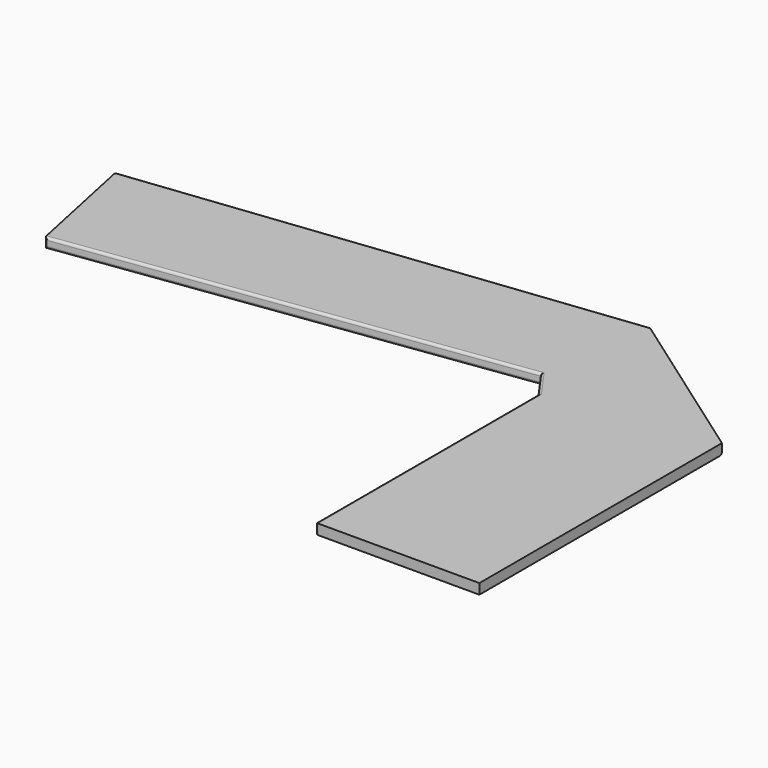
from build123d import *

# Parameters (mm, degrees)
F1_DEPTH = 38.1
F2_R     = 9.144


with BuildPart() as f1:
    # F0 (on Top) → F1 (new body)
    with BuildSketch(Plane.XY):
        Polygon((-1472.429714, 950.222232), (-1378.241877, 502.829238), (282.363867, 732.40607), (357.015101, 627.459186), (357.015101, -408.860814), (966.615101, -408.860814), (966.615101, 718.899186), (344.43414, 1158.825148), align=None)
    extrude(amount=F1_DEPTH)

    # F2
    f2_edges = [f1.edges().sort_by_distance(p)[0] for p in [
        (-547.939005, 617.617654, 38.1),
        (-547.939005, 617.617654, 0),
        (-1378.241877, 502.829238, 19.05),
        (319.689484, 679.932628, 0),
        (357.015101, 109.299186, 0),
        (357.015101, 109.299186, 38.1),
        (319.689484, 679.932628, 38.1),
        (357.015101, -408.860814, 19.05),
        (-1472.429714, 950.222232, 19.05),
        (-563.997787, 1054.52369, 38.1),
        (-563.997787, 1054.52369, 0),
        (655.52462, 938.862167, 0),
    ]]
    fillet(f2_edges, radius=F2_R)


solid = f1.part
